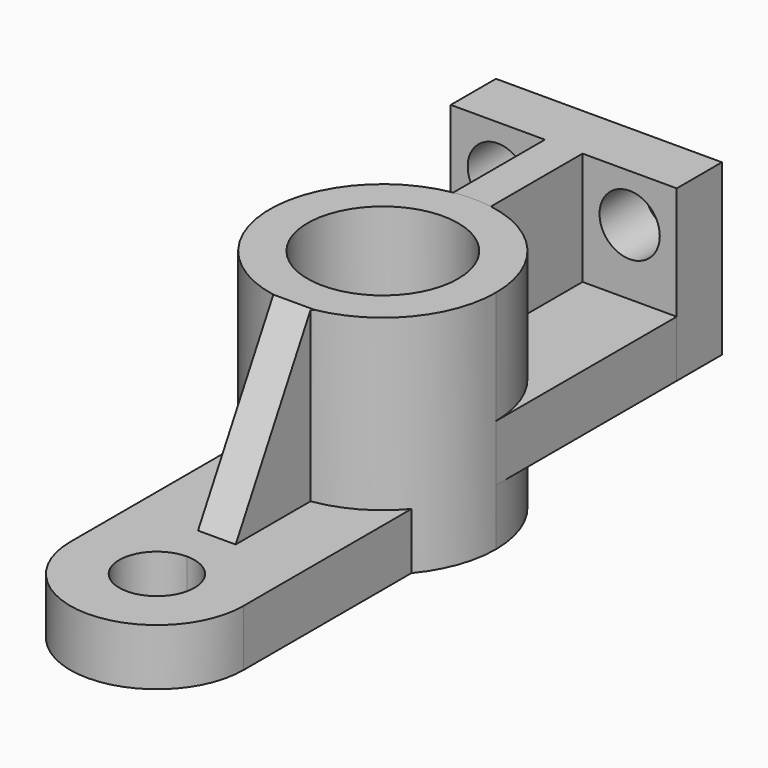
from build123d import *

# Parameters (mm, degrees)
F0_R      = 20
F1_DEPTH  = 60
F2_DEPTH  = 45
F3_R      = 8
F4_DEPTH  = 25
F6_DEPTH  = 15
F8_DEPTH  = 45
F10_DEPTH = 25
F11_W     = 25
F11_H     = 15
F12_DEPTH = 60
F13_W     = 25
F13_H     = 15
F14_DEPTH = 60
F15_DEPTH = 60.001


with BuildPart() as f1:
    # F0 (on Top) → F1 (new body)
    with BuildSketch(Plane.XY):
        with BuildLine():
            ThreePointArc((-4.9735443536, 29.5848585692), (-19.3751602495, -22.9042171948), (30, 0))
            ThreePointArc((30, 0), (22.921536482, 19.3546677911), (5.0264556464, 29.5759149247))
            ThreePointArc((5.0264556464, 29.5759149247), (0.0268309228, 29.9999880017), (-4.9735443536, 29.5848585692))
        make_face()
        Circle(F0_R, mode=Mode.SUBTRACT)
    extrude(amount=-F1_DEPTH)

    # F5 (on face) → F6 (join)
    with BuildSketch(Plane(origin=(0, 0, -60), x_dir=(1, 0, 0), z_dir=(0, 0, -1))):
        with BuildLine():
            ThreePointArc((-23, 19.2613602843), (-12.6917136643, 27.1830904105), (0, 30))
            ThreePointArc((0, 30), (12.6917136643, 27.1830904105), (23, 19.2613602843))
            Line((23, 19.2613602843), (23, 75))
            ThreePointArc((23, 75), (0, 98), (-23, 75))
            Line((-23, 75), (-23, 19.2613602843))
        make_face()
        with BuildLine():
            ThreePointArc((10, 75), (7.0710678119, 67.9289321881), (0, 65))
            ThreePointArc((0, 65), (-7.0710678119, 82.0710678119), (10, 75))
        make_face(mode=Mode.SUBTRACT)
    extrude(amount=-F6_DEPTH)

    # F7 (on Top) → F8 (join)
    with BuildSketch(Plane.XY):
        with BuildLine():
            ThreePointArc((4.5176299661, -29.6578997822), (-0.4892143627, -29.9960108899), (-5.4823700339, -29.4948066414))
            Line((-5.4823700339, -29.4948066414), (-5.4823700339, -54.4948066414))
            Line((-5.4823700339, -54.4948066414), (4.5176299661, -54.4948066414))
            Line((4.5176299661, -54.4948066414), (4.5176299661, -29.6578997822))
        make_face()
    extrude(amount=-F8_DEPTH)

    # F9 (on face) → F10 (cut)
    with BuildSketch(Plane(origin=(-5.4823700339, 0, 0), x_dir=(0, -1, 0), z_dir=(-1, 0, 0))):
        Polygon((54.4948066414, 0), (29.4948066414, 0), (54.4948066414, -45), align=None)
    extrude(amount=-F10_DEPTH, mode=Mode.SUBTRACT)


with BuildPart() as f2:
    # F0 (on Top) → F2 (new body)
    with BuildSketch(Plane.XY):
        with BuildLine():
            ThreePointArc((-4.9735443536, 29.5848585692), (0.0268309228, 29.9999880017), (5.0264556464, 29.5759149247))
            Line((5.0264556464, 29.5759149247), (5.0264556464, 60))
            Line((5.0264556464, 60), (30.0264556464, 60))
            Line((30.0264556464, 60), (30.0264556464, 75))
            Line((30.0264556464, 75), (-29.9735443536, 75))
            Line((-29.9735443536, 75), (-29.9735443536, 60))
            Line((-29.9735443536, 60), (-4.9735443536, 60))
            Line((-4.9735443536, 60), (-4.9735443536, 29.5848585692))
        make_face()
    extrude(amount=-F2_DEPTH)

    # F3 (on face) → F4 (cut)
    with BuildSketch(Plane.XZ.offset(-60)):
        with Locations((-17.4735443536, -12.9258744419)):
            Circle(F3_R)
        with Locations((17.5264556464, -12.6165784895)):
            Circle(F3_R)
    extrude(amount=-F4_DEPTH, mode=Mode.SUBTRACT)

    # F11 (on face) → F12 (join)
    with BuildSketch(Plane.XZ.offset(-60)):
        with Locations((-17.4735443536, -37.5)):
            Rectangle(F11_W, F11_H)
    extrude(amount=F12_DEPTH)


with BuildPart() as f14:
    # F13 (on face) → F14 (new body)
    with BuildSketch(Plane.XZ.offset(-60)):
        with Locations((17.5264556464, -37.5)):
            Rectangle(F13_W, F13_H)
    extrude(amount=F14_DEPTH)


with BuildPart() as f15_tool:
    # F0 (on Top) → F15 (new body, through all)
    with BuildSketch(Plane.XY):
        Circle(F0_R)
    extrude(amount=-F15_DEPTH)


with BuildPart() as f2_1:
    add(f2.part)

    # F15: cut by f15_tool
    add(f15_tool.part, mode=Mode.SUBTRACT)


with BuildPart() as f14_1:
    add(f14.part)

    # F15: cut by f15_tool
    add(f15_tool.part, mode=Mode.SUBTRACT)


solid = Compound([f1.part, f2_1.part, f14_1.part])
